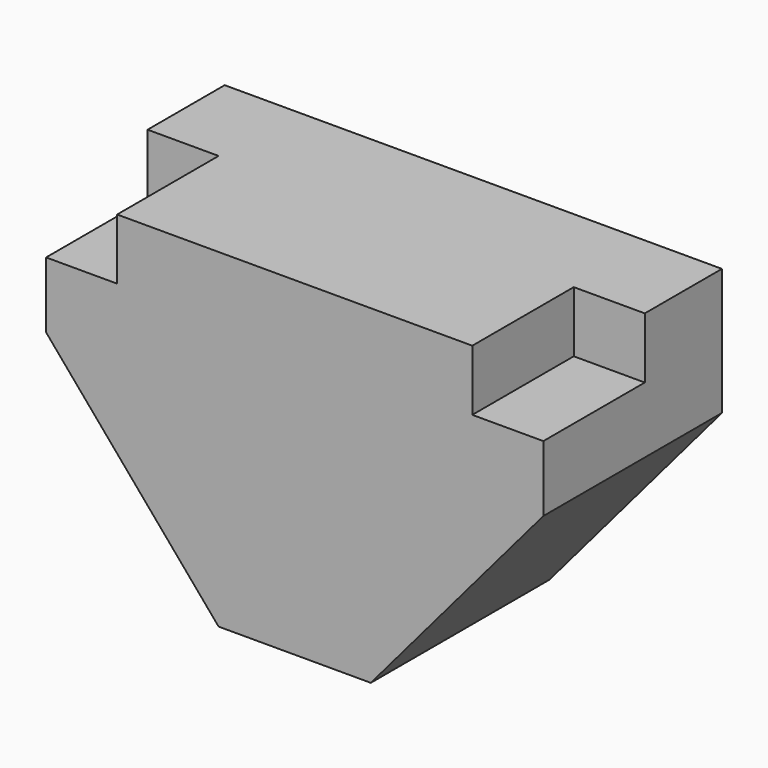
from build123d import *

# Parameters (mm, degrees)
F0_W     = 98
F0_H     = 65
F1_DEPTH = 44
F2_W     = 14
F2_H     = 12
F3_DEPTH = 25
F5_DEPTH = 44.001


with BuildPart() as f1:
    # F0 (on Front) → F1 (new body)
    with BuildSketch(Plane.XZ):
        Rectangle(F0_W, F0_H)
    extrude(amount=F1_DEPTH)

    # F2 (on face) → F3 (cut)
    with BuildSketch(Plane.XZ.offset(44)):
        with Locations((-42, 26.5)):
            Rectangle(F2_W, F2_H)
        with Locations((42, 26.5)):
            Rectangle(F2_W, F2_H)
    extrude(amount=-F3_DEPTH, mode=Mode.SUBTRACT)

    # F4 (on face) → F5 (cut, through all)
    with BuildSketch(Plane.XZ.offset(44)):
        Polygon((49, 7.5), (15, -32.5), (49, -32.5), align=None)
        Polygon((-15, -32.5), (-49, 7.5), (-49, -32.5), align=None)
    extrude(amount=-F5_DEPTH, mode=Mode.SUBTRACT)


solid = f1.part
